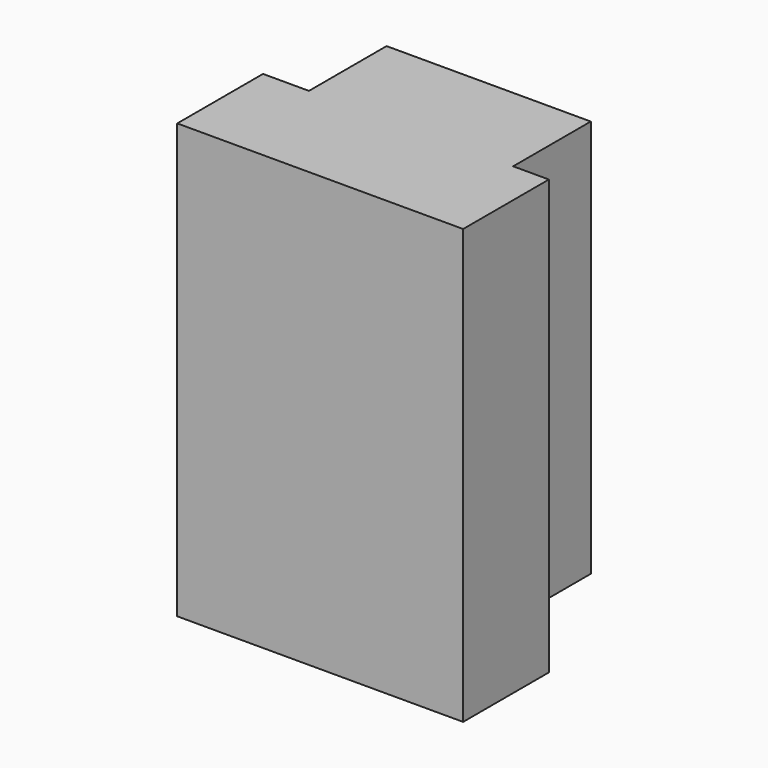
from build123d import *

# Parameters (mm, degrees)
BOX_W        = 56
BOX_H        = 21
BOX_DEPTH    = 85
BOX002_W     = 10
BOX002_H     = 10
BOX002_DEPTH = 12
BOX458_W     = 20
BOX458_H     = 4
BOX458_DEPTH = 3
BOX003_W     = 40
BOX003_H     = 19
BOX003_DEPTH = 78


with BuildPart() as box:
    # Box → Box (new body)
    with BuildSketch(Plane.XY):
        with Locations((28, 10.5)):
            Rectangle(BOX_W, BOX_H)
    extrude(amount=BOX_DEPTH)


with BuildPart() as box002:
    # Box002 → Box002 (new body)
    with BuildSketch(Plane(origin=(12, 21, -5), x_dir=(1, 0, 0), z_dir=(0, 0, 1))):
        with Locations((5, 5)):
            Rectangle(BOX002_W, BOX002_H)
    extrude(amount=BOX002_DEPTH)


with BuildPart() as box458:
    # Box458 → Box458 (new body)
    with BuildSketch(Plane(origin=(18, 14, -3), x_dir=(1, 0, 0), z_dir=(0, 0, 1))):
        with Locations((10, 2)):
            Rectangle(BOX458_W, BOX458_H)
    extrude(amount=BOX458_DEPTH)


with BuildPart() as fusion363:
    # Box003 → Box003 (new body)
    with BuildSketch(Plane(origin=(9, 21, 7), x_dir=(1, 0, 0), z_dir=(0, 0, 1))):
        with Locations((20, 9.5)):
            Rectangle(BOX003_W, BOX003_H)
    extrude(amount=BOX003_DEPTH)

    # Fusion363: union Box, Box002, Box458
    add(box.part)
    add(box002.part)
    add(box458.part)


with BuildPart() as fusion363_1:
    # Fusion363 placement: moved
    add(fusion363.part.moved(Location((-63.2, 17, 0))))


solid = fusion363_1.part
